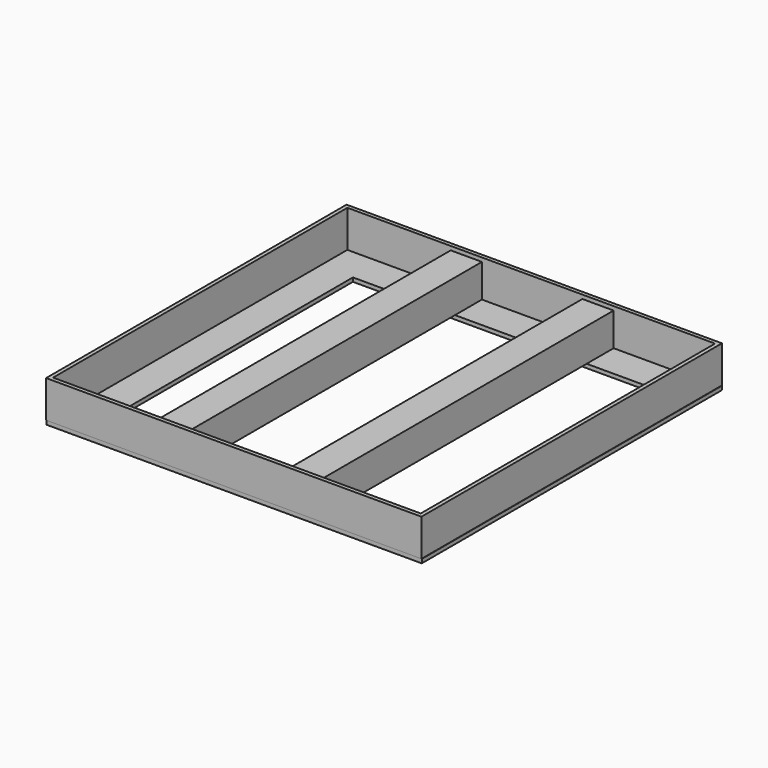
from build123d import *

# Parameters (mm, degrees)
SKETCH008_W   = 384.79573
SKETCH008_H   = 385.031417
SKETCH008_W_2 = 376.917694
SKETCH008_H_2 = 377.136078
PAD007_DEPTH  = 38
SKETCH007_W   = 32
SKETCH007_H   = 377
PAD006_DEPTH  = 34
SKETCH009_W   = 384.911911
SKETCH009_H   = 384.509689
SKETCH009_W_2 = 310.483261
SKETCH009_H_2 = 308.455338
PAD008_DEPTH  = 4


with BuildPart() as body009:
    # Sketch008 (on Face1 of CopyClone001) → Pad007 (new body)
    with BuildSketch(Plane(origin=(135, 0, -118), x_dir=(1, 0, 0), z_dir=(0, 0, -1))):
        with Locations((-134.968895, 0.104423)):
            Rectangle(SKETCH008_W, SKETCH008_H)
        with Locations((-135.014908, -0.01149)):
            Rectangle(SKETCH008_W_2, SKETCH008_H_2, mode=Mode.SUBTRACT)
    extrude(amount=-PAD007_DEPTH)


with BuildPart() as body07:
    # Sketch007 (on Face1 of CopyPad005) → Pad006 (new body)
    with BuildSketch(Plane(origin=(0, 0, -84), x_dir=(1, 0, 0), z_dir=(0, 0, -1))):
        with Locations((-66.550887, -0.158425)):
            Rectangle(SKETCH007_W, SKETCH007_H)
    extrude(amount=PAD006_DEPTH)


with BuildPart() as body008:
    # Body008 base: copy of body07
    add(body07.part)


with BuildPart() as body008_1:
    # Clone001 placement: moved
    add(body008.part.moved(Location((135, 0, 0))))


with BuildPart() as baseplate:
    # Sketch009 (on Face1 of CopyPad006) → Pad008 (new body)
    with BuildSketch(Plane(origin=(0, 0, -118), x_dir=(1, 0, 0), z_dir=(0, 0, -1))):
        with Locations((0.316445, 0.346092)):
            Rectangle(SKETCH009_W, SKETCH009_H)
        with Locations((0.063926, 0.16024)):
            Rectangle(SKETCH009_W_2, SKETCH009_H_2, mode=Mode.SUBTRACT)
    extrude(amount=PAD008_DEPTH)

    # Boolean001: union Body009, Body008, body07
    add(body009.part)
    add(body008_1.part)
    add(body07.part)


solid = baseplate.part
